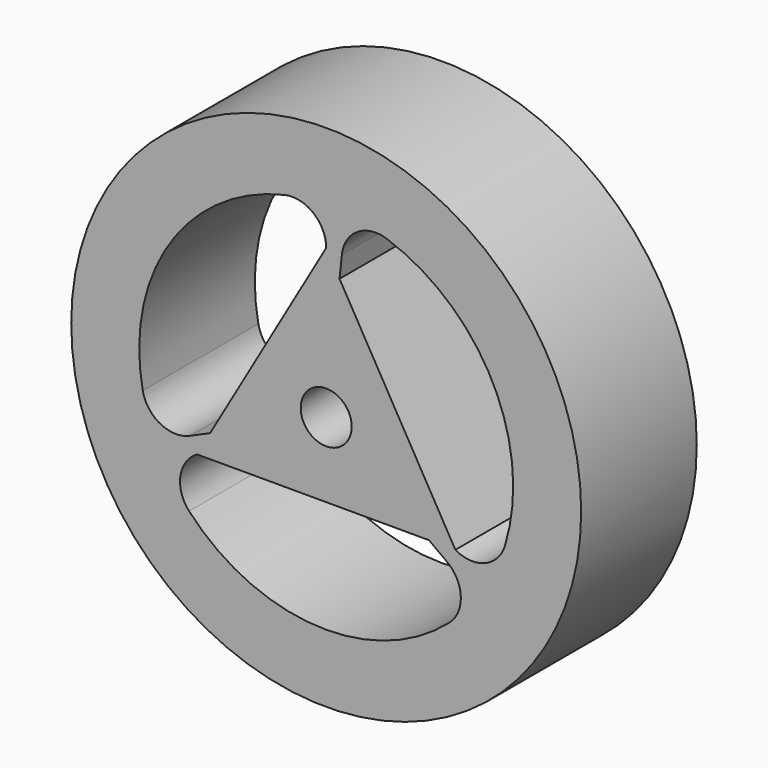
from build123d import *

# Parameters (mm, degrees)
F0_R     = 15
F0_R_2   = 1.5
F1_DEPTH = 8.5
F3_DEPTH = 8.501


with BuildPart() as f1:
    # F0 (on Front) → F1 (new body)
    with BuildSketch(Plane.XZ):
        Circle(F0_R)
        Circle(F0_R_2, mode=Mode.SUBTRACT)
    extrude(amount=F1_DEPTH)

    # F2 (on face) → F3 (cut, through all)
    with BuildSketch(Plane.XZ.offset(8.5)):
        with BuildLine():
            Line((-8.018047, -3.565237), (-6.827862, -3.03602))
            Line((-6.827862, -3.03602), (0, 8.774964))
            ThreePointArc((0, 8.774964), (-0.752781, 10.338436), (-2.444444, 10.724956))
            ThreePointArc((-2.444444, 10.724956), (-9.223933, 5.993251), (-10.793005, -2.123923))
            ThreePointArc((-10.793005, -2.123923), (-9.752508, -3.512624), (-8.018047, -3.565237))
        make_face()
        with BuildLine():
            Line((0.784661, 7.431112), (7.599342, -4.387482))
            ThreePointArc((7.599342, -4.387482), (9.329739, -4.517291), (10.510307, -3.245527))
            ThreePointArc((10.510307, -3.245527), (9.802274, 4.991535), (3.557131, 10.408978))
            ThreePointArc((3.557131, 10.408978), (1.834233, 10.202232), (0.921437, 8.726451))
            Line((0.921437, 8.726451), (0.784661, 7.431112))
        make_face()
        with BuildLine():
            Line((6.043201, -4.395092), (-7.599342, -4.387482))
            ThreePointArc((-7.599342, -4.387482), (-8.576958, -5.821146), (-8.065863, -7.479429))
            ThreePointArc((-8.065863, -7.479429), (-0.578341, -10.984786), (7.235873, -8.285055))
            ThreePointArc((7.235873, -8.285055), (7.918276, -6.689608), (7.09661, -5.161214))
            Line((7.09661, -5.161214), (6.043201, -4.395092))
        make_face()
    extrude(amount=-F3_DEPTH, mode=Mode.SUBTRACT)


solid = f1.part
